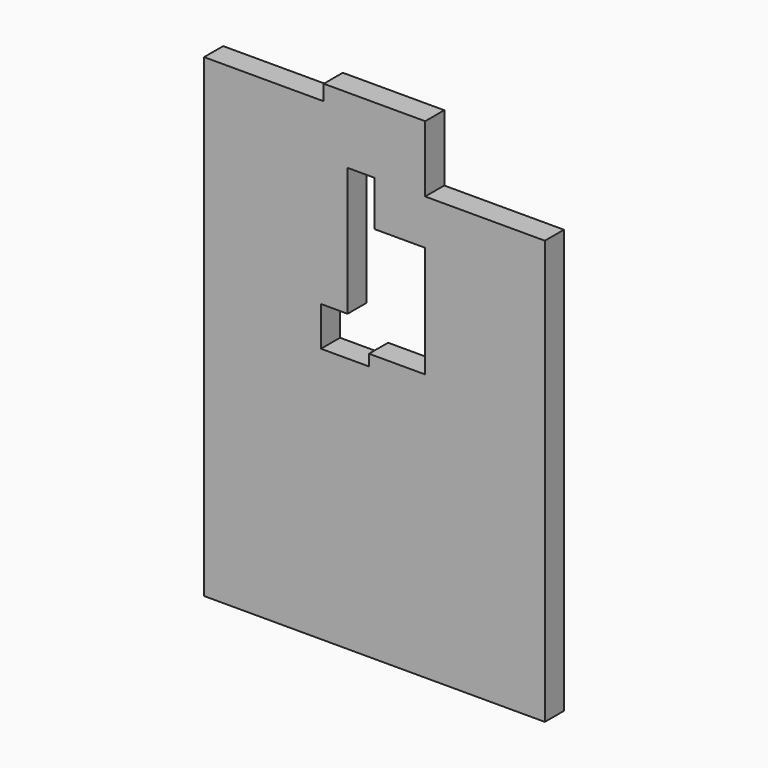
from build123d import *

# Parameters (mm, degrees)
F0_W     = 181.5531998873
F0_H     = 102.3213416338
F0_W_2   = 127.5060996413
F0_H_2   = 48.1534004211
F0_H_3   = 54.1679412127
F0_W_3   = 54.047100246
F1_DEPTH = 25.4
F2_DEPTH = 25.4


with BuildPart() as f1:
    # F0 (on Front) → F1 (new body)
    with BuildSketch(Plane.XZ):
        with Locations((0, -139.9423852563)):
            Rectangle(F0_W, F0_H)
        Polygon((90.7765999436, -191.1030560732), (-90.7765999436, -191.1030560732), (-90.7765999436, -314.4985437393), (272.3297998309, -314.4985437393), (272.3297998309, -88.7817144394), (90.7765999436, -88.7817144394), align=None)
        Polygon((-90.7765999436, 88.7817144394), (-90.7765999436, -88.7817144394), (90.7765999436, -88.7817144394), (90.7765999436, -30.0107300282), (84.9582105875, -30.0107300282), (84.9582105875, -41.9930517673), (33.7925106287, -41.9930517673), (33.7925106287, 0), (36.7294996977, 0), (36.7294996977, 88.7817144394), align=None)
        Polygon((90.7765999436, -30.0107300282), (90.7765999436, -88.7817144394), (272.3297998309, -88.7817144394), (272.3297998309, 88.7817144394), (144.8237001896, 88.7817144394), (144.8237001896, 0), (144.8237001896, -30.0107300282), align=None)
        with Locations((-27.023550123, 112.85841465)):
            Rectangle(F0_W_2, F0_H_2)
        with Locations((-27.023550123, 164.0190854669)):
            Rectangle(F0_W_2, F0_H_3)
        with Locations((208.5767500103, 112.85841465)):
            Rectangle(F0_W_2, F0_H_2)
        with Locations((63.7530498207, 164.0190854669)):
            Rectangle(F0_W_3, F0_H_3)
        Polygon((90.7765999436, 118.6627522111), (90.7765999436, 88.7817144394), (144.8237001896, 88.7817144394), (144.8237001896, 136.9351148605), (90.7765999436, 136.9351148605), align=None)
        Polygon((36.7294996977, 207.5741589069), (36.7294996977, 191.1030560732), (90.7765999436, 191.1030560732), (90.7765999436, 136.9351148605), (144.8237001896, 136.9351148605), (144.8237001896, 207.5741589069), align=None)
    extrude(amount=-F1_DEPTH)

    # F2 (add): a face of the model
    f2_faces = [f1.faces().sort_by_distance(p)[0] for p in [
        (36.7294996977, 12.7, 68.4675574303),
    ]]
    extrude(f2_faces, amount=F2_DEPTH)


solid = f1.part
